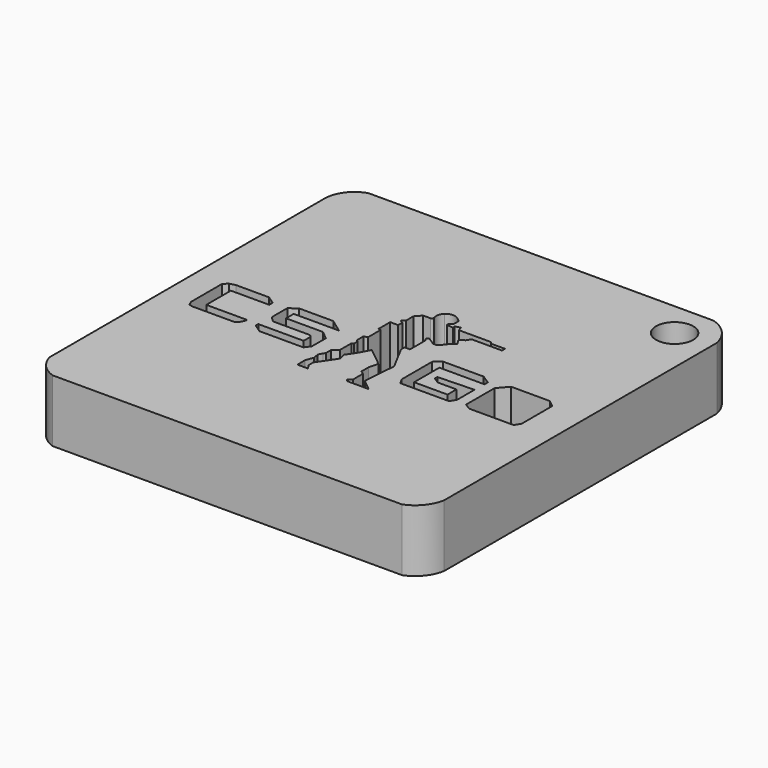
from build123d import *

# Parameters (mm, degrees)
F1_DEPTH = 5
F2_R     = 1.487565
F3_DEPTH = 25


with BuildPart() as f1:
    # F0 (on Top) → F1 (new body)
    with BuildSketch(Plane.XY):
        with BuildLine():
            ThreePointArc((-14.500521, 15.723383), (-15.72616, 14.852099), (-16.19577, 13.423536))
            Line((-16.19577, 13.423536), (-16.19577, -14.155729))
            ThreePointArc((-16.19577, -14.155729), (-15.580113, -15.265987), (-14.515248, -15.957195))
            Line((-14.515248, -15.957195), (13.538033, -15.957195))
            ThreePointArc((13.538033, -15.957195), (14.664759, -15.140462), (15.249531, -13.877685))
            Line((15.249531, -13.877685), (15.249531, 13.492324))
            ThreePointArc((15.249531, 13.492324), (14.531055, 14.889514), (13.19951, 15.723383))
            Line((13.19951, 15.723383), (-14.500521, 15.723383))
        make_face()
        Polygon((-9.889765, 0), (-12.746189, 0), (-12.965441, 0), (-12.965441, -0.315834), (-12.965441, -2.466221), (-9.700684, -2.466221), (-9.700684, -2.596811), (-9.889765, -2.997288), (-9.987982, -3.110466), (-10.214339, -3.180114), (-13.522626, -3.180114), (-13.818631, -3.110466), (-13.968735, -2.727133), (-13.968735, 0.355315), (-13.660931, 0.671027), (-13.192589, 0.790616), (-10.528548, 0.790616), (-9.889765, 0.355315), align=None, mode=Mode.SUBTRACT)
        Polygon((-8.720032, 0.355315), (-8.110611, 0.790616), (-5.376921, 0.790616), (-4.279962, 0), (-7.919079, 0), (-7.919079, -0.77241), (-4.941619, -0.77241), (-4.279962, -1.329595), (-4.279962, -2.727133), (-4.610791, -3.175272), (-8.128023, -3.175272), (-8.789681, -2.727133), (-8.789681, -2.466221), (-5.150564, -2.466221), (-5.150564, -1.764896), (-5.324685, -1.608188), (-8.302143, -1.608188), (-8.720032, -1.207711), (-8.720032, 0), align=None, mode=Mode.SUBTRACT)
        Polygon((4.463568, -1.329595), (4.463568, -1.069831), (7.363056, -0.965359), (7.363056, -2.727133), (7.075374, -3.175272), (3.186837, -3.175272), (2.913897, -2.727133), (2.913897, 0.343786), (3.418846, 0.790616), (6.692736, 0.790616), (7.388791, 0.343786), (7.388791, 0), (3.767087, 0), (3.767087, -2.532442), (6.448541, -2.532442), (6.448541, -1.634477), (4.9385, -1.634477), align=None, mode=Mode.SUBTRACT)
        Polygon((8.903638, 0.790616), (12.002981, 0.790616), (12.551844, 0.343786), (12.551844, -2.727133), (12.264162, -3.175272), (8.693178, -3.175272), (8.207156, -2.863271), (8.207156, 0), align=None, mode=Mode.SUBTRACT)
        with BuildLine():
            Line((0.510285, 4.991175), (0.510285, 4.822795))
            Line((0.510285, 4.822795), (1.027232, 4.781501))
            Line((1.027232, 4.781501), (1.027232, 4.970423))
            Line((1.027232, 4.970423), (1.443637, 5.0924))
            Line((1.443637, 5.0924), (1.547077, 4.739275))
            Line((1.547077, 4.739275), (4.141693, 4.739275))
            Line((4.141693, 4.739275), (4.244784, 4.57001))
            Line((4.244784, 4.57001), (5.379676, 4.57001))
            Line((5.379676, 4.57001), (5.379676, 4.269563))
            Line((5.379676, 4.269563), (4.282718, 4.269563))
            Line((4.282718, 4.269563), (2.941991, 4.269563))
            Line((2.941991, 4.269563), (2.744667, 3.93836))
            Line((2.744667, 3.93836), (2.345195, 3.69506))
            Line((2.345195, 3.69506), (2.562487, 3.338289))
            Line((2.562487, 3.338289), (2.658973, 3.179869))
            Line((2.658973, 3.179869), (2.493863, 3.079309))
            Line((2.493863, 3.079309), (2.332569, 2.981072))
            Line((2.332569, 2.981072), (1.877723, 2.421154))
            Line((1.877723, 2.421154), (1.6535, 2.284591))
            Line((1.6535, 2.284591), (1.443637, 2.284591))
            Line((1.443637, 2.284591), (0.811452, 2.69042))
            Line((0.811452, 2.69042), (0.625802, 2.57735))
            Line((0.625802, 2.57735), (0.782898, 2.319415))
            Line((0.782898, 2.319415), (0.782898, 0.790616))
            Line((0.782898, 0.790616), (0.347854, 0.790616))
            Line((0.347854, 0.790616), (0.347854, 0.430846))
            Line((0.347854, 0.430846), (1.443637, -1.634477))
            Line((1.443637, -1.634477), (1.23433, -4.306218))
            Line((1.23433, -4.306218), (2.120807, -5.039395))
            Line((2.120807, -5.039395), (0.369284, -5.039395))
            Line((0.369284, -5.039395), (0.244222, -4.834056))
            Line((0.244222, -4.834056), (0.544849, -4.650959))
            Line((0.544849, -4.650959), (0.544849, -3.641361))
            Line((0.544849, -3.641361), (0.273981, -3.444366))
            Line((0.273981, -3.444366), (0.273981, -2.727133))
            Line((0.273981, -2.727133), (0.458664, -1.99153))
            Line((0.458664, -1.99153), (0, -1.585228))
            Line((0, -1.585228), (-1.031109, -0.77241))
            Line((-1.031109, -0.77241), (-1.445959, -1.548292))
            Line((-1.445959, -1.548292), (-2.003771, -2.385519))
            Line((-2.003771, -2.385519), (-1.858417, -2.914943))
            Line((-1.858417, -2.914943), (-2.845868, -4.380091))
            Line((-2.845868, -4.380091), (-2.845868, -4.834056))
            Line((-2.845868, -4.834056), (-2.601957, -5.234533))
            Line((-2.601957, -5.234533), (-3.437877, -5.234533))
            Line((-3.437877, -5.234533), (-3.437877, -4.86888))
            Line((-3.437877, -4.86888), (-3.437877, -4.468403))
            Line((-3.437877, -4.468403), (-3.209849, -3.841491))
            Line((-3.209849, -3.841491), (-3.296034, -3.373629))
            Line((-3.296034, -3.373629), (-3.135976, -3.065825))
            Line((-3.135976, -3.065825), (-3.025166, -2.881142))
            Line((-3.025166, -2.881142), (-3.025166, -2.400967))
            Line((-3.025166, -2.400967), (-2.601957, -1.994665))
            Line((-2.601957, -1.994665), (-2.601957, -0.874258))
            Line((-2.601957, -0.874258), (-2.458807, -0.77241))
            Line((-2.458807, -0.77241), (-2.458807, -0.418708))
            Line((-2.458807, -0.418708), (-2.601957, -0.32021))
            Line((-2.601957, -0.32021), (-2.601957, 0.343786))
            Line((-2.601957, 0.343786), (-2.305952, 0.430846))
            Line((-2.305952, 0.430846), (-2.305952, 1.710631))
            Line((-2.305952, 1.710631), (-2.500045, 1.710631))
            Line((-2.500045, 1.710631), (-2.500045, 2.899405))
            Line((-2.500045, 2.899405), (-1.858417, 2.899405))
            Line((-1.858417, 2.899405), (-1.858417, 3.317294))
            Line((-1.858417, 3.317294), (-2.007655, 3.385334))
            Line((-2.007655, 3.385334), (-2.099568, 3.491414))
            Line((-2.099568, 3.491414), (-1.858417, 3.700359))
            Line((-1.858417, 3.700359), (-1.858417, 4.424379))
            Line((-1.858417, 4.424379), (-1.445959, 4.892242))
            Line((-1.445959, 4.892242), (-0.836507, 4.892242))
            ThreePointArc((-0.836507, 4.892242), (-0.739639, 4.970476), (-0.714366, 5.0924))
            ThreePointArc((-0.714366, 5.0924), (-0.749437, 5.530727), (-0.533184, 5.913604))
            ThreePointArc((-0.533184, 5.913604), (-0.011449, 6.109638), (0.510285, 5.913604))
            Line((0.510285, 5.913604), (0.627419, 5.811112))
            Line((0.627419, 5.811112), (0.773836, 5.693978))
            Line((0.773836, 5.693978), (0.773836, 5.525598))
            Line((0.773836, 5.525598), (0.773836, 5.357218))
            Line((0.773836, 5.357218), (0.773836, 5.210801))
            Line((0.773836, 5.210801), (0.627419, 5.079025))
            Line((0.627419, 5.079025), (0.510285, 4.991175))
        make_face(mode=Mode.SUBTRACT)
    extrude(amount=F1_DEPTH)

    # F2 (on face) → F3 (cut)
    with BuildSketch(Plane.XY.offset(5)):
        with Locations((12.347989, 12.883592)):
            Circle(F2_R)
    extrude(amount=-F3_DEPTH, mode=Mode.SUBTRACT)


solid = f1.part
